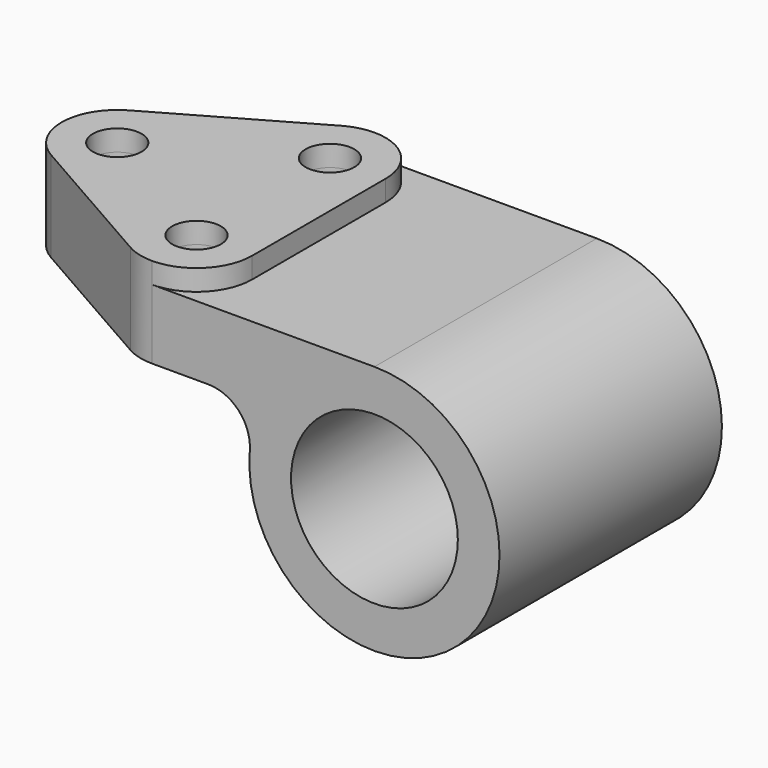
from build123d import *

# Parameters (mm, degrees)
F0_R     = 19.05
F1_DEPTH = 31.75
F2_DEPTH = 4.7625
F4_DEPTH = 15.875
F3_R     = 5.5626
F5_DEPTH = 4.7752
F6_DEPTH = 57.151


with BuildPart() as f1:
    # F0 (on Front) → F1 (new body, symmetric)
    with BuildSketch(Plane.XZ):
        with BuildLine():
            ThreePointArc((-37.967478, 12.7), (-30.957268, 9.623455), (-28.475608, 2.38125))
            ThreePointArc((-28.475608, 2.38125), (-25.771923, -12.342552), (-15.995025, -23.678889))
            ThreePointArc((-15.995025, -23.678889), (27.323569, -8.363802), (0, 28.575))
            Line((0, 28.575), (-96.8502, 28.575))
            Line((-96.8502, 28.575), (-96.8502, 12.7))
            Line((-96.8502, 12.7), (-69.85, 12.7))
            Line((-69.85, 12.7), (-37.967478, 12.7))
        make_face()
        Circle(F0_R, mode=Mode.SUBTRACT)
    extrude(amount=F1_DEPTH, both=True)

    # F0 (on Front) → F2 (join, symmetric)
    with BuildSketch(Plane.XZ):
        with BuildLine():
            ThreePointArc((-15.995025, -23.678889), (-25.771923, -12.342552), (-28.475608, 2.38125))
            ThreePointArc((-28.475608, 2.38125), (-30.957268, 9.623455), (-37.967478, 12.7))
            Line((-37.967478, 12.7), (-69.85, 12.7))
            Line((-69.85, 12.7), (-15.995025, -23.678889))
        make_face()
    extrude(amount=F2_DEPTH, both=True)

    # F3 (on face) → F4 (cut, through all)
    with BuildSketch(Plane.XY.offset(28.575)):
        with BuildLine():
            Line((-57.099155, -30.077721), (-90.449355, -11.027721))
            ThreePointArc((-90.449355, -11.027721), (-95.134035, -6.375372), (-96.8502, 0))
            Line((-96.8502, 0), (-96.8502, -31.75))
            Line((-96.8502, -31.75), (-50.8, -31.75))
            ThreePointArc((-50.8, -31.75), (-54.058676, -31.324813), (-57.099155, -30.077721))
        make_face()
        with BuildLine():
            Line((-96.8502, 31.75), (-96.8502, 0))
            ThreePointArc((-96.8502, 0), (-95.134035, 6.375372), (-90.449355, 11.027721))
            Line((-90.449355, 11.027721), (-57.099155, 30.077721))
            ThreePointArc((-57.099155, 30.077721), (-54.058676, 31.324813), (-50.8, 31.75))
            Line((-50.8, 31.75), (-96.8502, 31.75))
        make_face()
    extrude(amount=-F4_DEPTH, mode=Mode.SUBTRACT)

    # F3 (on face) → F5 (join)
    with BuildSketch(Plane.XY.offset(28.575)):
        with BuildLine():
            ThreePointArc((-96.8502, 0), (-95.134035, -6.375372), (-90.449355, -11.027721))
            Line((-90.449355, -11.027721), (-57.099155, -30.077721))
            ThreePointArc((-57.099155, -30.077721), (-54.058676, -31.324813), (-50.8, -31.75))
            ThreePointArc((-50.8, -31.75), (-41.819744, -28.030256), (-38.1, -19.05))
            Line((-38.1, -19.05), (-38.1, 19.05))
            ThreePointArc((-38.1, 19.05), (-41.819744, 28.030256), (-50.8, 31.75))
            ThreePointArc((-50.8, 31.75), (-54.058676, 31.324813), (-57.099155, 30.077721))
            Line((-57.099155, 30.077721), (-90.449355, 11.027721))
            ThreePointArc((-90.449355, 11.027721), (-95.134035, 6.375372), (-96.8502, 0))
        make_face()
        with Locations((-50.8, -19.05)):
            Circle(F3_R, mode=Mode.SUBTRACT)
        with Locations((-84.1502, 0)):
            Circle(F3_R, mode=Mode.SUBTRACT)
        with Locations((-50.8, 19.05)):
            Circle(F3_R, mode=Mode.SUBTRACT)
    extrude(amount=F5_DEPTH)

    # F3 (on face) → F6 (cut, through all)
    with BuildSketch(Plane.XY.offset(28.575)):
        with Locations((-50.8, -19.05)):
            Circle(F3_R)
        with Locations((-84.1502, 0)):
            Circle(F3_R)
        with Locations((-50.8, 19.05)):
            Circle(F3_R)
    extrude(amount=-F6_DEPTH, mode=Mode.SUBTRACT)


solid = f1.part
